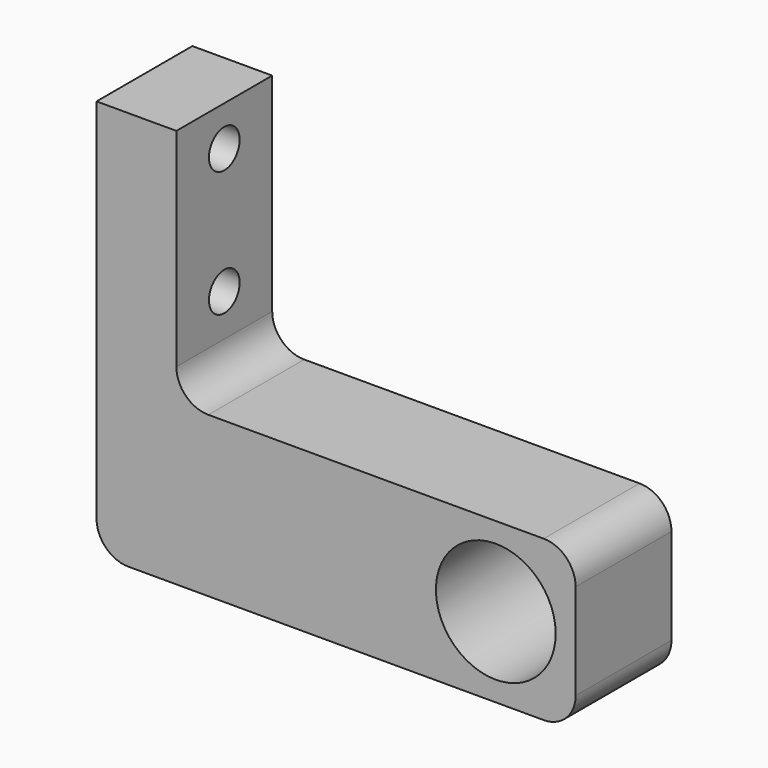
from build123d import *

# Parameters (mm, degrees)
F1_DEPTH = 9.525
F2_R     = 4.7625
F3_DEPTH = 9.526
F4_R     = 1.524
F5_DEPTH = 25.4
F6_R     = 2.54


with BuildPart() as f1:
    # F0 (on Front) → F1 (new body)
    with BuildSketch(Plane.XZ):
        Polygon((6.35, 12.7), (6.35, 31.75), (0, 31.75), (0, 0), (38.1, 0), (38.1, 12.7), align=None)
    extrude(amount=-F1_DEPTH)

    # F2 (on Front) → F3 (cut, through all)
    with BuildSketch(Plane.XZ):
        with Locations((31.75, 6.35)):
            Circle(F2_R)
    extrude(amount=-F3_DEPTH, mode=Mode.SUBTRACT)

    # F4 (on Right) → F5 (cut)
    with BuildSketch(Plane.YZ):
        with Locations((4.7625, 28.575)):
            Circle(F4_R)
        with Locations((4.7625, 18.575)):
            Circle(F4_R)
    extrude(amount=F5_DEPTH, mode=Mode.SUBTRACT)

    # F6
    f6_edges = [f1.edges().sort_by_distance(p)[0] for p in [
        (0, 4.7625, 0),
        (38.1, 4.7625, 0),
        (38.1, 4.7625, 12.7),
        (6.35, 4.7625, 12.7),
    ]]
    fillet(f6_edges, radius=F6_R)


solid = f1.part
